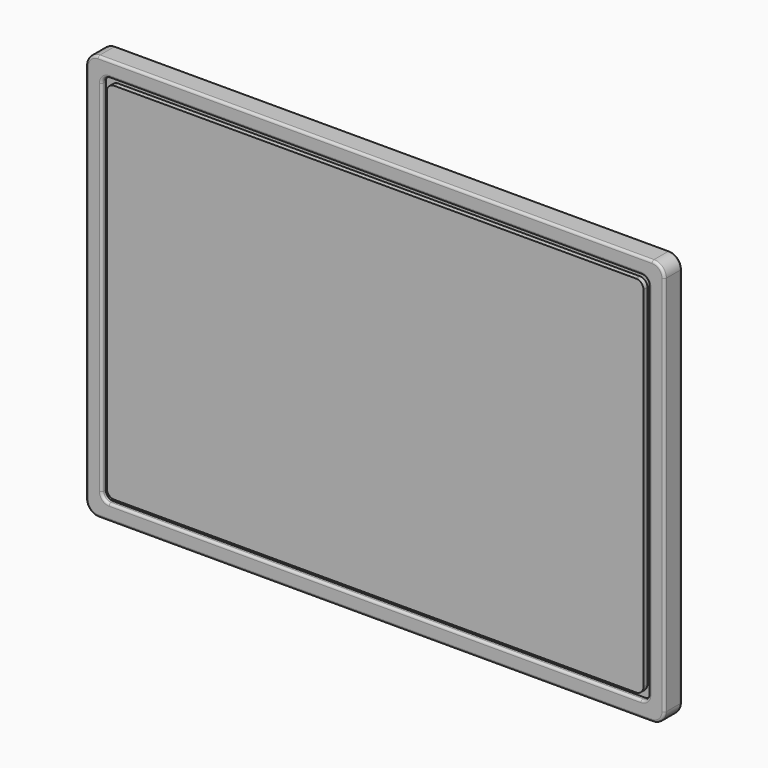
from build123d import *

# Parameters (mm, degrees)
SKETCH_W     = 235
SKETCH_H     = 165
PAD_DEPTH    = 4.5
SKETCH001_W  = 222
SKETCH001_H  = 152
POCKET_DEPTH = 2
FILLET_R     = 5
FILLET001_R  = 3
FILLET002_R  = 1
FILLET003_R  = 1
FILLET004_R  = 1
SKETCH002_W  = 218
SKETCH002_H  = 148
PAD001_DEPTH = 2
FILLET005_R  = 3


with BuildPart() as body:
    # Sketch → Pad (new body, symmetric)
    with BuildSketch(Plane.XZ):
        Rectangle(SKETCH_W, SKETCH_H)
    extrude(amount=PAD_DEPTH, both=True)

    # Sketch001 (on Face6 of Pad) → Pocket (cut)
    with BuildSketch(Plane.XZ.offset(4.5)):
        Rectangle(SKETCH001_W, SKETCH001_H)
    extrude(amount=-POCKET_DEPTH, mode=Mode.SUBTRACT)

    # Fillet
    fillet_edges = [body.edges().sort_by_distance(p)[0] for p in [
        (117.5, 0, 82.5),
        (-117.5, 0, 82.5),
        (-117.5, 0, -82.5),
        (117.5, 0, -82.5),
    ]]
    fillet(fillet_edges, radius=FILLET_R)

    # Fillet001
    fillet001_edges = [body.edges().sort_by_distance(p)[0] for p in [
        (111, -3.5, 76),
        (-111, -3.5, 76),
        (-111, -3.5, -76),
        (111, -3.5, -76),
    ]]
    fillet(fillet001_edges, radius=FILLET001_R)

    # Fillet002
    fillet002_edges = [body.edges().sort_by_distance(p)[0] for p in [
        (0, -4.5, 82.5),
    ]]
    fillet(fillet002_edges, radius=FILLET002_R)

    # Fillet003
    fillet003_edges = [body.edges().sort_by_distance(p)[0] for p in [
        (0, 4.5, 82.5),
    ]]
    fillet(fillet003_edges, radius=FILLET003_R)

    # Fillet004
    fillet004_edges = [body.edges().sort_by_distance(p)[0] for p in [
        (0, -4.5, 76),
    ]]
    fillet(fillet004_edges, radius=FILLET004_R)


with BuildPart() as body001:
    # Sketch002 → Pad001 (new body)
    with BuildSketch(Plane.XZ.offset(2.5)):
        Rectangle(SKETCH002_W, SKETCH002_H)
    extrude(amount=PAD001_DEPTH)

    # Fillet005
    fillet005_edges = [body001.edges().sort_by_distance(p)[0] for p in [
        (109, -3.5, 74),
        (109, -3.5, -74),
        (-109, -3.5, -74),
        (-109, -3.5, 74),
    ]]
    fillet(fillet005_edges, radius=FILLET005_R)


solid = Compound([body.part, body001.part])
